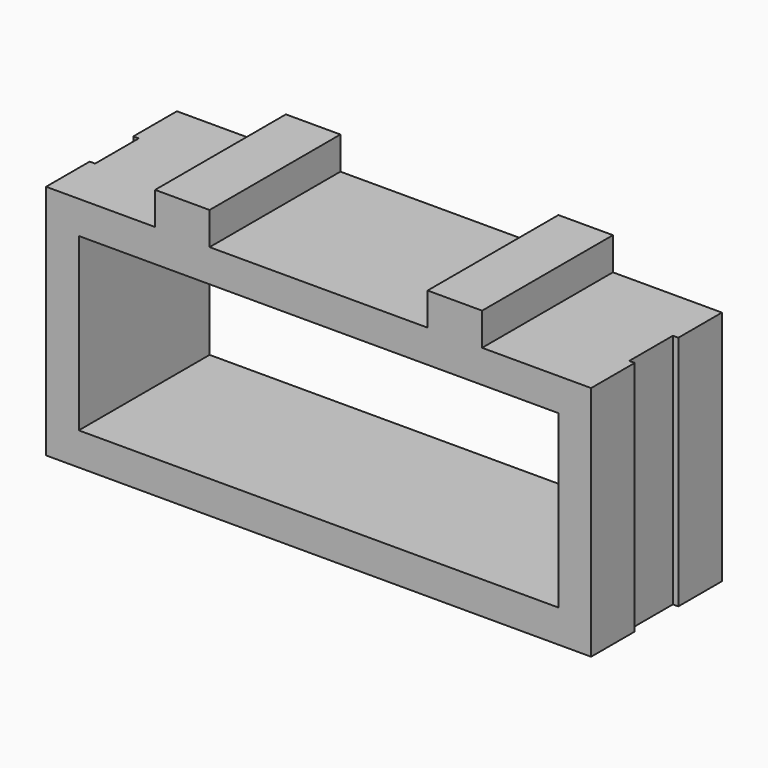
from build123d import *

# Parameters (mm, degrees)
F0_W     = 44
F0_H     = 15.7
F1_DEPTH = 15
F2_W     = 0.5
F2_H     = 5
F3_DEPTH = 25


with BuildPart() as f1:
    # F0 (on Front) → F1 (new body)
    with BuildSketch(Plane.XZ):
        Polygon((-15, 10.85), (-25, 10.85), (-25, -10.85), (25, -10.85), (25, 10.85), (15, 10.85), (15, 13.85), (10, 13.85), (10, 10.85), (-10, 10.85), (-10, 13.85), (-15, 13.85), align=None)
        Rectangle(F0_W, F0_H, mode=Mode.SUBTRACT)
    extrude(amount=-F1_DEPTH)

    # F2 (on face) → F3 (cut)
    with BuildSketch(Plane(origin=(0, 0, -10.85), x_dir=(1, 0, 0), z_dir=(0, 0, -1))):
        with Locations((-24.75, -7.5)):
            Rectangle(F2_W, F2_H)
        with Locations((24.75, -7.5)):
            Rectangle(F2_W, F2_H)
    extrude(amount=-F3_DEPTH, mode=Mode.SUBTRACT)


solid = f1.part
